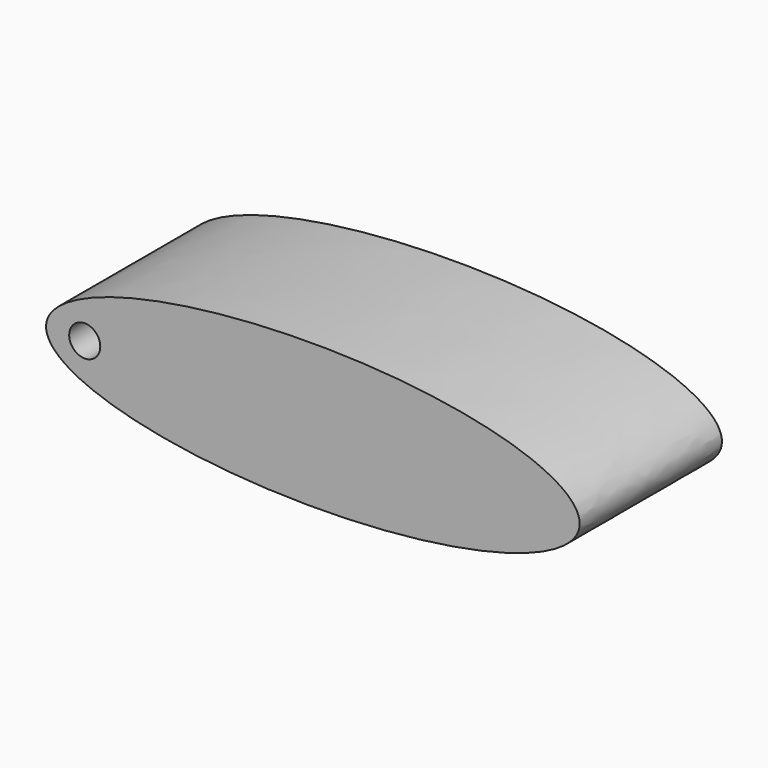
from build123d import *

# Parameters (mm, degrees)
F0_R     = 1.109256
F1_DEPTH = 12.7


with BuildPart() as f1:
    # F0 (on Front) → F1 (new body)
    with BuildSketch(Plane.XZ):
        with BuildLine():
            add(Edge.make_bspline(
                [(-19.05, 0), (-19.05, -8.903204), (9.525, -4.451602), (38.1, 0), (9.525, 4.451602), (-19.05, 8.903204), (-19.05, 0)],
                knots=[0, 0, 0, 2.094395, 2.094395, 4.18879, 4.18879, 6.283185, 6.283185, 6.283185], degree=2, weights=[1, 0.5, 1, 0.5, 1, 0.5, 1]))
        make_face()
        with Locations((-16.289842, 0)):
            Circle(F0_R, mode=Mode.SUBTRACT)
    extrude(amount=F1_DEPTH)


solid = f1.part
